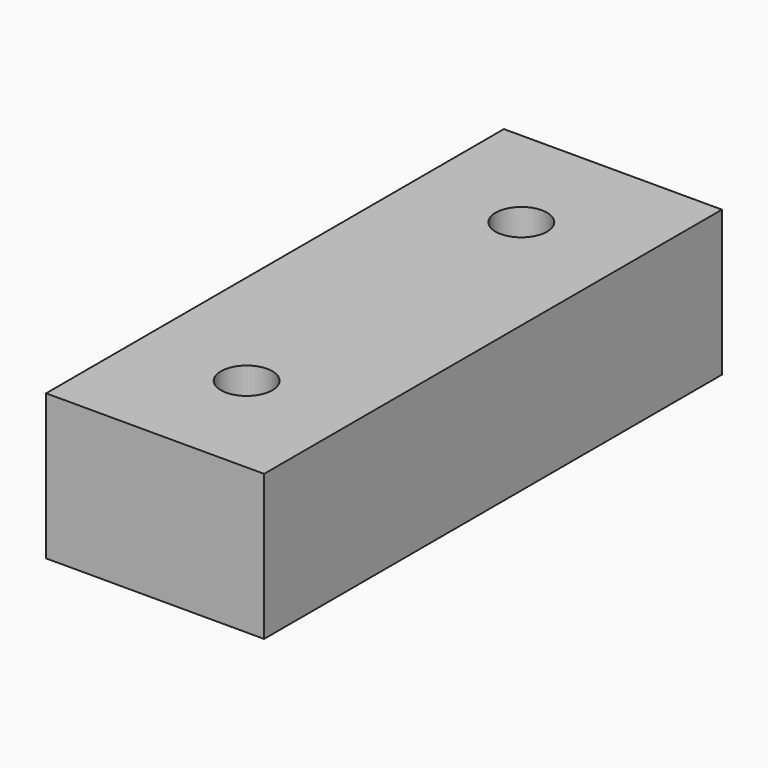
from build123d import *

# Parameters (mm, degrees)
F0_W     = 19.05
F0_H     = 12.7
F1_DEPTH = 25
F3_D     = 4.5


with BuildPart() as f1:
    # F0 (on Front) → F1 (new body, symmetric)
    with BuildSketch(Plane.XZ):
        Rectangle(F0_W, F0_H)
    extrude(amount=F1_DEPTH, both=True)

    # F3 (through all)
    with Locations(Plane.XY.offset(6.35)):
        with Locations((0, 15), (0, -15)):
            Hole(F3_D / 2)


solid = f1.part
